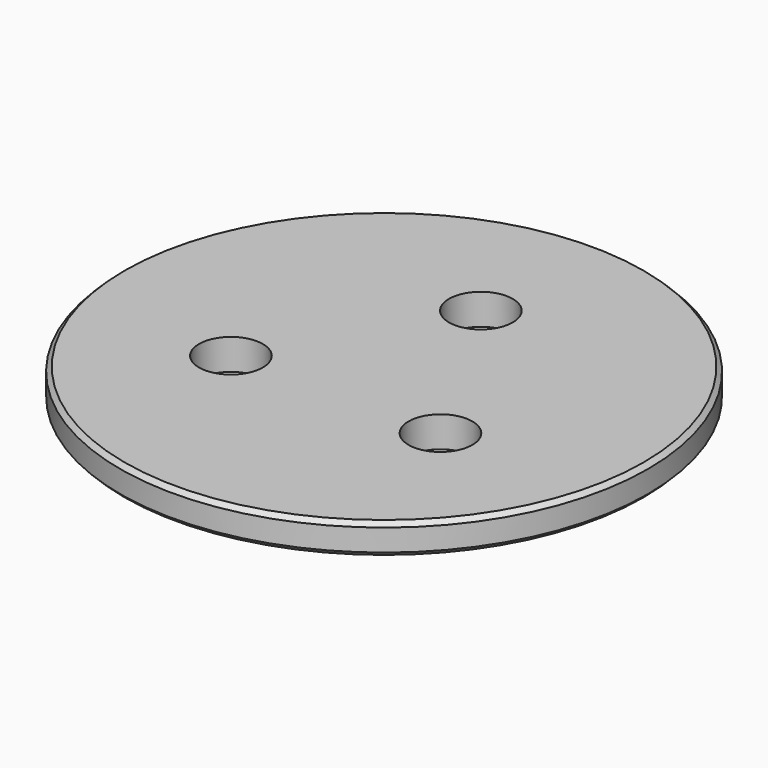
from build123d import *

# Parameters (mm, degrees)
F0_R     = 60
F1_DEPTH = 7
F2_SIZE  = 1
F4_D     = 14.5


with BuildPart() as f1:
    # F0 (on Top) → F1 (new body)
    with BuildSketch(Plane.XY):
        Circle(F0_R)
    extrude(amount=F1_DEPTH)

    # F2
    f2_edges = [f1.edges().sort_by_distance(p)[0] for p in [
        (-60, 0, 7),
        (-60, 0, 0),
    ]]
    chamfer(f2_edges, length=F2_SIZE)

    # F4 (through all)
    with Locations(Plane.XY.offset(7)):
        with Locations((0, 27.5), (23.8156986041, -13.75), (-23.8156986041, -13.75)):
            Hole(F4_D / 2)


solid = f1.part
